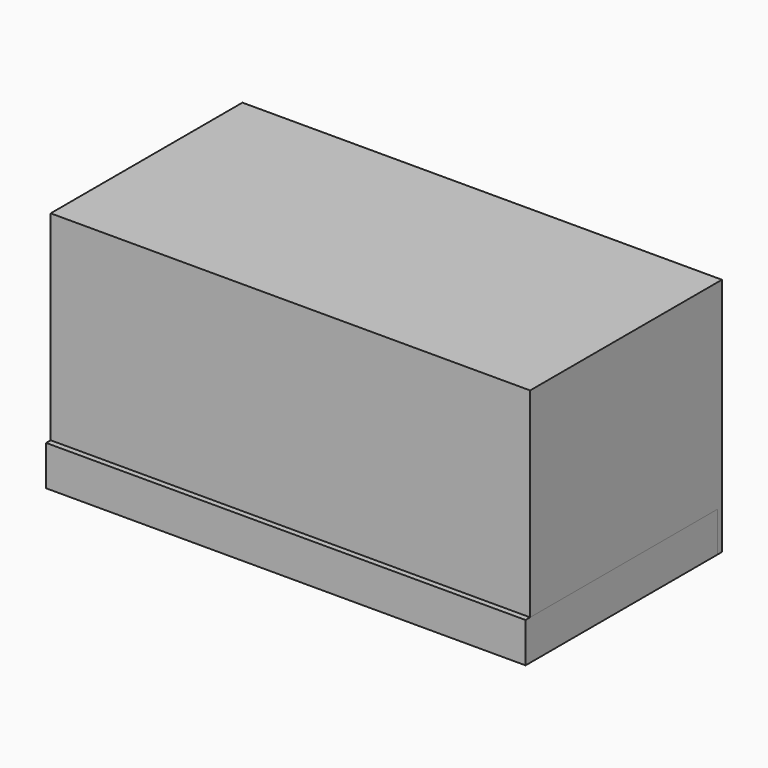
from build123d import *

# Parameters (mm, degrees)
F0_W     = 152.4
F0_H     = 76.2
F1_DEPTH = 76.2
F2_T     = -6.35
F3_W     = 152.4
F3_H     = 76.2
F4_DEPTH = 12.7


with BuildPart() as f1:
    # F0 (on Top) → F1 (new body)
    with BuildSketch(Plane.XY):
        Rectangle(F0_W, F0_H)
    extrude(amount=F1_DEPTH)

    # F2
    f2_openings = [f1.faces().sort_by_distance(p)[0] for p in [
        (0, 38.1, 38.1),
    ]]
    offset(amount=F2_T, openings=f2_openings)


with BuildPart() as f4:
    # F3 (on Top) → F4 (new body)
    with BuildSketch(Plane.XY):
        with Locations((0, -1.819701)):
            Rectangle(F3_W, F3_H)
    extrude(amount=F4_DEPTH)


solid = Compound([f1.part, f4.part])
